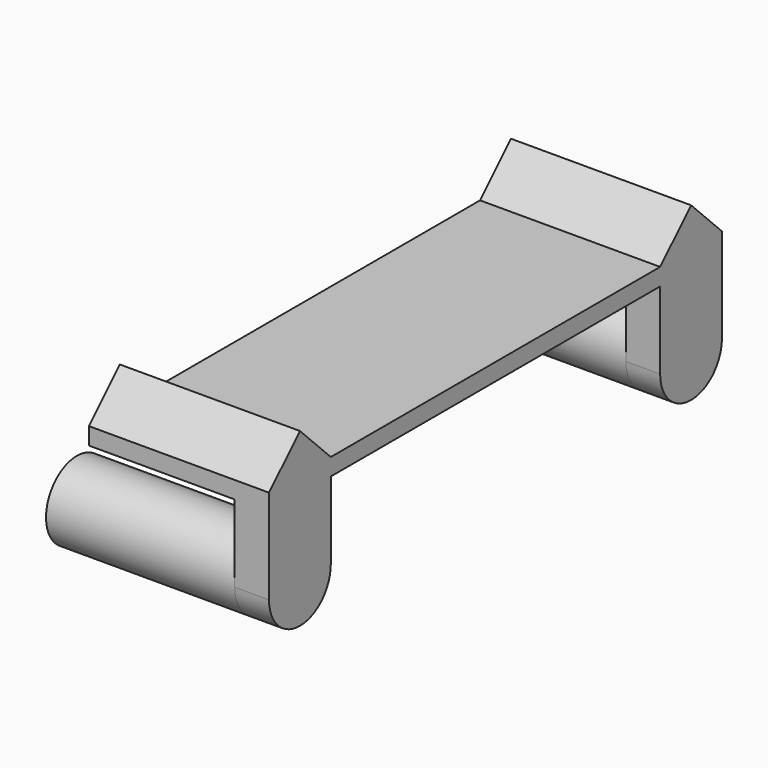
from build123d import *

# Parameters (mm, degrees)
PAD047_DEPTH      = 4
SKETCH067_R       = 4.5
PAD048_DEPTH      = 22
PAD049_DEPTH      = 4
PAD049_DEPTH_BACK = 17


with BuildPart() as part:
    # Sketch066 → Pad047 (new body)
    with BuildSketch(Plane.YZ):
        with BuildLine():
            Line((-33, 33.999821), (-33, 45))
            Line((-33, 45), (33, 45))
            Line((33, 45), (33, 33.999804))
            ThreePointArc((24, 34), (28.499902, 29.5), (33, 33.999804))
            Line((24, 34), (24, 43))
            Line((24, 43), (-24, 43))
            Line((-24, 43), (-24, 34))
            ThreePointArc((-33, 33.999821), (-28.499911, 29.5), (-24, 34))
        make_face()
    extrude(amount=PAD047_DEPTH)

    # Sketch067 → Pad048 (join)
    with BuildSketch(Plane.YZ):
        with Locations((-28.5, 34)):
            Circle(SKETCH067_R)
        with Locations((28.5, 34)):
            Circle(SKETCH067_R)
    extrude(amount=-PAD048_DEPTH)

    # Sketch068 → Pad049 (join, two sides)
    with BuildSketch(Plane.YZ) as pad049_sk:
        Polygon((-33, 45), (-33, 43), (33, 43), (33, 45), (28.5, 49.5), (24, 45), (-24, 45), (-28.5, 49.5), align=None)
    extrude(amount=PAD049_DEPTH)
    extrude(pad049_sk.sketch, amount=-PAD049_DEPTH_BACK)


with BuildPart() as part_1:
    # Body031 placement: moved
    add(part.part.moved(Location((46, 0, 0))))


solid = part_1.part
